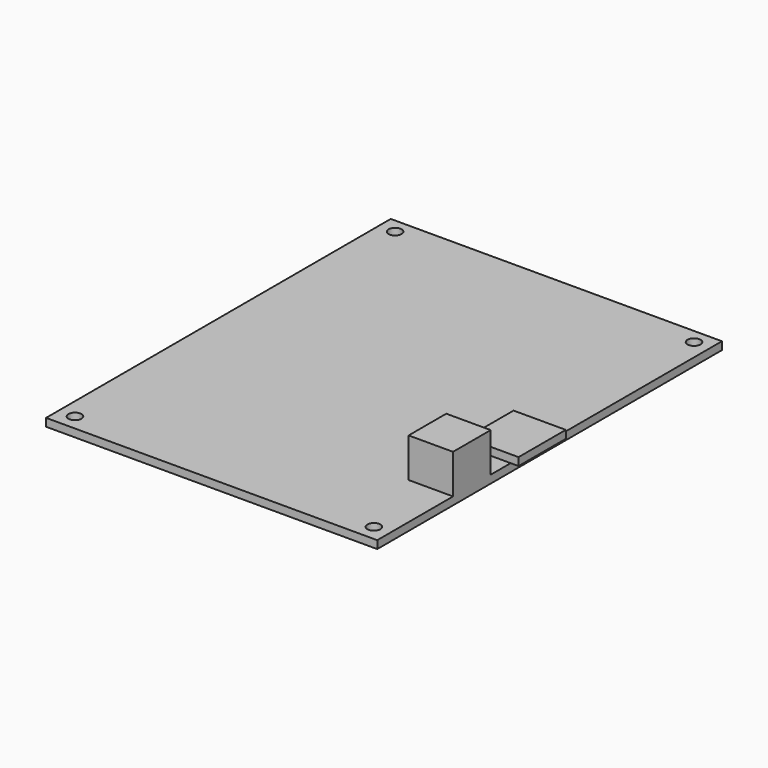
from build123d import *

# Parameters (mm, degrees)
BOX002_W          = 13.3
BOX002_H          = 15.03
BOX002_DEPTH      = 2
CYLINDER002_R     = 1.65
CYLINDER002_DEPTH = 10
CYLINDER001_R     = 1.65
CYLINDER001_DEPTH = 10
CYLINDER_R        = 1.65
CYLINDER_DEPTH    = 10
CYLINDER003_R     = 1.65
CYLINDER003_DEPTH = 10
BOX_W             = 84.3
BOX_H             = 109.67
BOX_DEPTH         = 2
BOX001_W          = 11.3
BOX001_H          = 11.98
BOX001_DEPTH      = 10


with BuildPart() as sd_pos:
    # Box002 → Box002 (new body)
    with BuildSketch(Plane(origin=(73, 42.46, 2), x_dir=(1, 0, 0), z_dir=(0, 0, 1))):
        with Locations((6.65, 7.515)):
            Rectangle(BOX002_W, BOX002_H)
    extrude(amount=BOX002_DEPTH)


with BuildPart() as cylinder002:
    # Cylinder002 → Cylinder002 (new body)
    with BuildSketch(Plane(origin=(80.2, 4.07, 0), x_dir=(1, 0, 0), z_dir=(0, 0, 1))):
        Circle(CYLINDER002_R)
    extrude(amount=CYLINDER002_DEPTH)


with BuildPart() as cylinder001:
    # Cylinder001 → Cylinder001 (new body)
    with BuildSketch(Plane(origin=(80.2, 105.92, 0), x_dir=(1, 0, 0), z_dir=(0, 0, 1))):
        Circle(CYLINDER001_R)
    extrude(amount=CYLINDER001_DEPTH)


with BuildPart() as cylinder:
    # Cylinder → Cylinder (new body)
    with BuildSketch(Plane(origin=(4.1, 105.92, 0), x_dir=(1, 0, 0), z_dir=(0, 0, 1))):
        Circle(CYLINDER_R)
    extrude(amount=CYLINDER_DEPTH)


with BuildPart() as board_hole_pos:
    # Cylinder003 → Cylinder003 (new body)
    with BuildSketch(Plane(origin=(4.1, 4.07, 0), x_dir=(1, 0, 0), z_dir=(0, 0, 1))):
        Circle(CYLINDER003_R)
    extrude(amount=CYLINDER003_DEPTH)

    # Fusion: union Cylinder002, Cylinder001, Cylinder
    add(cylinder002.part)
    add(cylinder001.part)
    add(cylinder.part)


with BuildPart() as cut:
    # Box → Box (new body)
    with BuildSketch(Plane.XY):
        with Locations((42.15, 54.835)):
            Rectangle(BOX_W, BOX_H)
    extrude(amount=BOX_DEPTH)

    # Cut: cut board-hole-pos
    add(board_hole_pos.part, mode=Mode.SUBTRACT)


with BuildPart() as obj1:
    # Box001 → Box001 (new body)
    with BuildSketch(Plane(origin=(73, 24.11, 2), x_dir=(1, 0, 0), z_dir=(0, 0, 1))):
        with Locations((5.65, 5.99)):
            Rectangle(BOX001_W, BOX001_H)
    extrude(amount=BOX001_DEPTH)

    # Fusion010004007002: union sd-pos, Cut
    add(sd_pos.part)
    add(cut.part)


with BuildPart() as obj1_1:
    # Fusion010004007002 placement: moved
    add(obj1.part.moved(Location((30, 0, 7))))


solid = obj1_1.part
